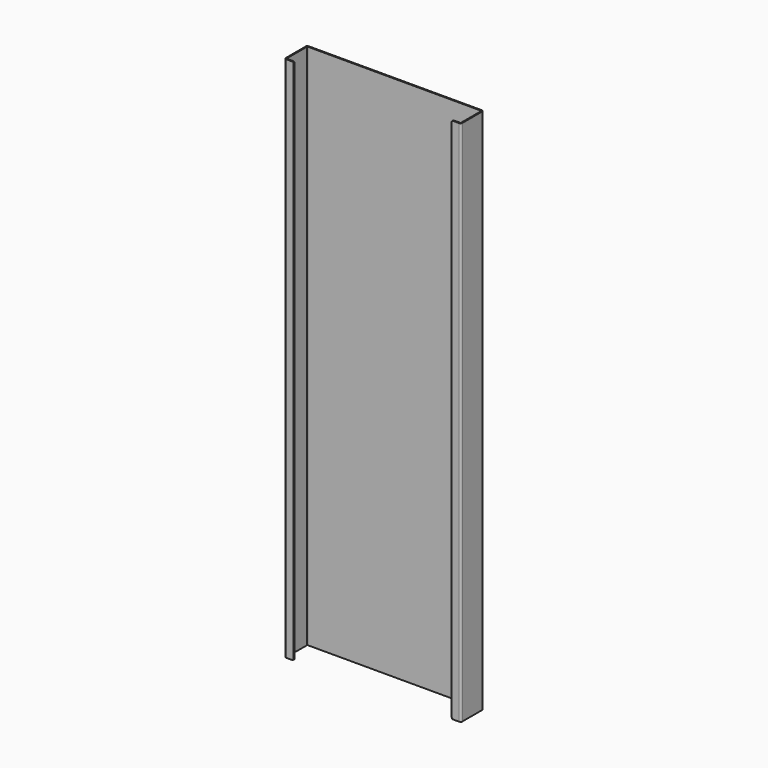
from build123d import *

# Parameters (mm, degrees)
F1_DEPTH = 373.5
F2_R     = 2


with BuildPart() as f1:
    # F0 (on Top) → F1 (new body, symmetric)
    with BuildSketch(Plane.XY):
        with BuildLine():
            Line((122.5, 0), (0, 0))
            Line((0, 0), (-122.5, 0))
            ThreePointArc((-122.5, 0), (-124.267767, -0.732233), (-125, -2.5))
            Line((-125, -2.5), (-125, -37.5))
            ThreePointArc((-125, -37.5), (-124.267767, -39.267767), (-122.5, -40))
            Line((-122.5, -40), (-112, -40))
            Line((-112, -40), (-112, -38.5))
            Line((-112, -38.5), (-122.5, -38.5))
            ThreePointArc((-122.5, -38.5), (-123.207107, -38.207107), (-123.5, -37.5))
            Line((-123.5, -37.5), (-123.5, -2.5))
            ThreePointArc((-123.5, -2.5), (-123.207107, -1.792893), (-122.5, -1.5))
            Line((-122.5, -1.5), (0, -1.5))
            Line((0, -1.5), (122.5, -1.5))
            ThreePointArc((122.5, -1.5), (123.207107, -1.792893), (123.5, -2.5))
            Line((123.5, -2.5), (123.5, -37.5))
            ThreePointArc((123.5, -37.5), (123.207107, -38.207107), (122.5, -38.5))
            Line((122.5, -38.5), (112, -38.5))
            Line((112, -38.5), (112, -40))
            Line((112, -40), (122.5, -40))
            ThreePointArc((122.5, -40), (124.267767, -39.267767), (125, -37.5))
            Line((125, -37.5), (125, -2.5))
            ThreePointArc((125, -2.5), (124.267767, -0.732233), (122.5, 0))
        make_face()
    extrude(amount=F1_DEPTH, both=True)

    # F2
    f2_edges = [f1.edges().sort_by_distance(p)[0] for p in [
        (-112, -39.25, -373.5),
        (112, -39.25, -373.5),
        (112, -39.25, 373.5),
        (-112, -39.25, 373.5),
    ]]
    fillet(f2_edges, radius=F2_R)


solid = f1.part
